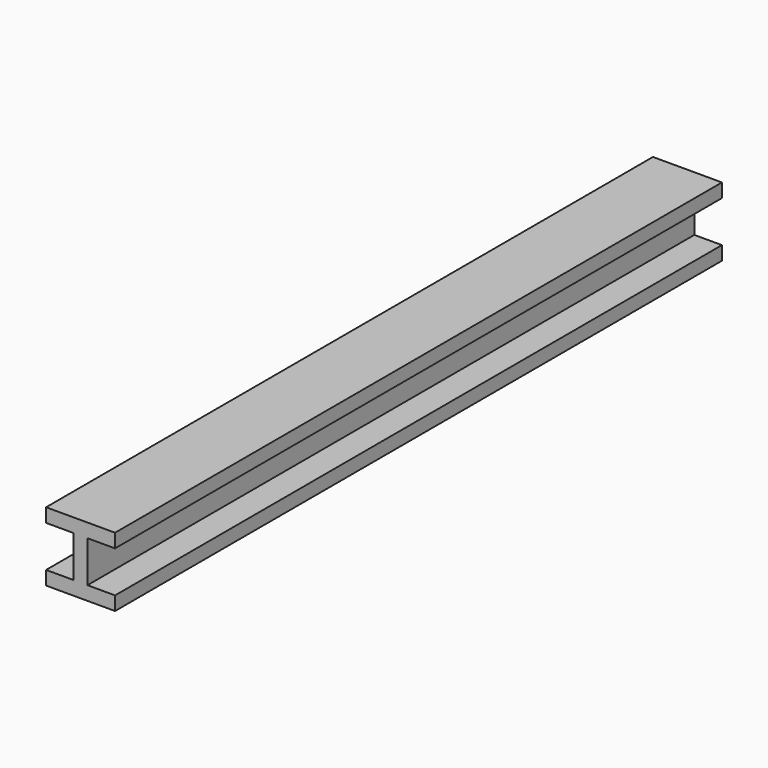
from build123d import *

# Parameters (mm, degrees)
F0_W     = 2.54
F0_H     = 1.27
F0_H_2   = 7.62
F1_DEPTH = 69.85


with BuildPart() as f1:
    # F0 (on Front) → F1 (new body, symmetric)
    with BuildSketch(Plane.XZ):
        Polygon((1.27, -3.81), (1.27, -5.08), (-1.27, -5.08), (-1.27, -3.81), (-6.35, -3.81), (-6.35, -6.35), (6.35, -6.35), (6.35, -3.81), align=None)
        with Locations((0, -4.445)):
            Rectangle(F0_W, F0_H)
        with Locations((0, 4.445)):
            Rectangle(F0_W, F0_H)
        Rectangle(F0_W, F0_H_2)
        Polygon((1.27, 5.08), (1.27, 3.81), (6.35, 3.81), (6.35, 6.35), (-6.35, 6.35), (-6.35, 3.81), (-1.27, 3.81), (-1.27, 5.08), align=None)
    extrude(amount=F1_DEPTH, both=True)


solid = f1.part
